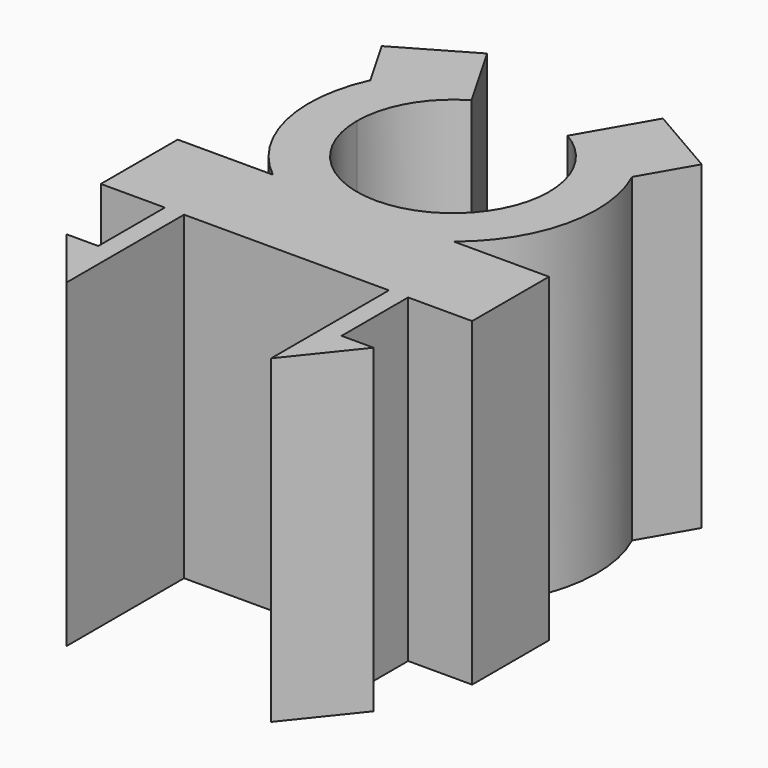
from build123d import *

# Parameters (mm, degrees)
F1_DEPTH = 12.7


with BuildPart() as f1:
    # F0 (on Top) → F1 (new body)
    with BuildSketch(Plane.XY):
        with BuildLine():
            ThreePointArc((3.81, 0), (0, -3.81), (-3.81, 0))
            Line((-3.81, 0), (-5.190639, 2.391337))
            ThreePointArc((-5.190639, 2.391337), (-5.564549, -1.302698), (-3.589764, -4.446888))
            Line((-3.589764, -4.446888), (-7.366, -4.446888))
            Line((-7.366, -4.446888), (-7.366, -8.256888))
            Line((-7.366, -8.256888), (-4.826, -8.256888))
            Line((-4.826, -8.256888), (-4.826, -11.558888))
            Line((-4.826, -11.558888), (-6.096, -11.558888))
            Line((-6.096, -11.558888), (-4.064, -14.098888))
            Line((-4.064, -14.098888), (-4.064, -8.256888))
            Line((-4.064, -8.256888), (4.064, -8.256888))
            Line((4.064, -8.256888), (4.064, -14.098888))
            Line((4.064, -14.098888), (6.096, -11.558888))
            Line((6.096, -11.558888), (4.826, -11.558888))
            Line((4.826, -11.558888), (4.826, -8.256888))
            Line((4.826, -8.256888), (7.366, -8.256888))
            Line((7.366, -8.256888), (7.366, -4.446888))
            Line((7.366, -4.446888), (3.589764, -4.446888))
            ThreePointArc((3.589764, -4.446888), (5.564549, -1.302698), (5.190639, 2.391337))
            Line((5.190639, 2.391337), (3.81, 0))
        make_face()
        with BuildLine():
            ThreePointArc((1.902884, 3.300778), (3.298946, 1.906058), (3.81, 0))
            Line((3.81, 0), (5.190639, 2.391337))
            Line((5.190639, 2.391337), (6.35, 4.399409))
            Line((6.35, 4.399409), (3.490384, 6.050409))
            Line((3.490384, 6.050409), (1.902884, 3.300778))
        make_face()
        with BuildLine():
            ThreePointArc((-3.81, 0), (-3.298946, 1.906058), (-1.902884, 3.300778))
            Line((-1.902884, 3.300778), (-3.490384, 6.050409))
            Line((-3.490384, 6.050409), (-6.35, 4.399409))
            Line((-6.35, 4.399409), (-5.190639, 2.391337))
            Line((-5.190639, 2.391337), (-3.81, 0))
        make_face()
    extrude(amount=F1_DEPTH)


solid = f1.part
